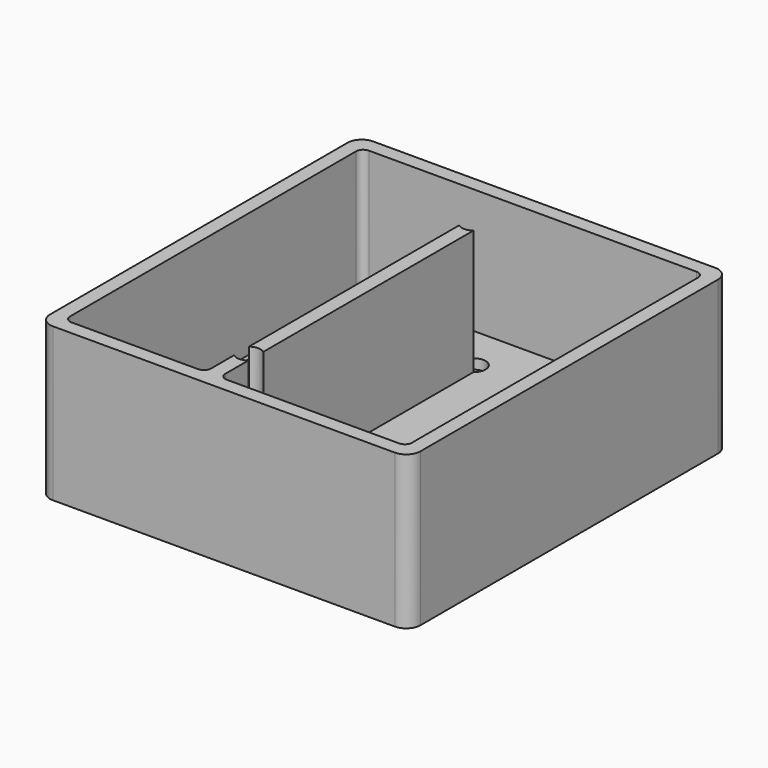
from build123d import *

# Parameters (mm, degrees)
F0_W      = 52
F0_H      = 56.2
F1_DEPTH  = 4
F2_W      = 52
F2_H      = 56.2
F3_DEPTH  = 17.5
F5_DEPTH  = 1
F6_R      = 3.25
F7_DEPTH  = 2
F9_DEPTH  = 2.6
F10_R     = 1.65
F11_DEPTH = 21.501
F12_R     = 2
F13_R     = 1


with BuildPart() as f1:
    # F0 (on Top) → F1 (new body)
    with BuildSketch(Plane.XY):
        with Locations((26, 28.1)):
            Rectangle(F0_W, F0_H)
    extrude(amount=F1_DEPTH)

    # F2 (on face) → F3 (join)
    with BuildSketch(Plane.XY.offset(4)):
        with Locations((26, 28.1)):
            Rectangle(F2_W, F2_H)
        Polygon((2, 2), (2, 54.2), (50, 54.2), (50, 2), (23.8, 2), (23.8, 48.2), (21.8, 48.2), (21.8, 2), align=None, mode=Mode.SUBTRACT)
    extrude(amount=F3_DEPTH)

    # F4 (on face) → F5 (cut)
    with BuildSketch(Plane.XY.offset(4)):
        Polygon((2.6, 45.881166), (2.6, 22.581166), (7.6, 17.262331), (14.9, 17.262331), (19.9, 22.581166), (19.9, 45.881166), (14.9, 51.2), (7.6, 51.2), align=None)
    extrude(amount=-F5_DEPTH, mode=Mode.SUBTRACT)

    # F6 (on face) → F7 (cut, through all)
    with BuildSketch(Plane.YZ.offset(2)):
        with Locations((8.75, 12.75)):
            Circle(F6_R)
    extrude(amount=-F7_DEPTH, mode=Mode.SUBTRACT)

    # F8 (on face) → F9 (cut)
    with BuildSketch(Plane(origin=(0, 0, 0), x_dir=(1, 0, 0), z_dir=(0, 0, -1))):
        Polygon((19.9, -10.022947), (22.8, -11.697263), (25.7, -10.022947), (25.7, -6.674316), (22.8, -5), (19.9, -6.674316), align=None)
        Polygon((22.8, -44.502737), (19.9, -46.177053), (19.9, -49.525684), (22.8, -51.2), (25.7, -49.525684), (25.7, -46.177053), align=None)
    extrude(amount=-F9_DEPTH, mode=Mode.SUBTRACT)

    # F10 (on face) → F11 (cut, through all)
    with BuildSketch(Plane(origin=(0, 0, 0), x_dir=(1, 0, 0), z_dir=(0, 0, -1))):
        with Locations((22.8, -47.851368)):
            Circle(F10_R)
        with Locations((22.8, -8.348632)):
            Circle(F10_R)
    extrude(amount=-F11_DEPTH, mode=Mode.SUBTRACT)

    # F12
    f12_edges = [f1.edges().sort_by_distance(p)[0] for p in [
        (0, 0, 10.75),
        (52, 0, 10.75),
        (0, 56.2, 10.75),
        (52, 56.2, 10.75),
    ]]
    fillet(f12_edges, radius=F12_R)

    # F13
    f13_edges = [f1.edges().sort_by_distance(p)[0] for p in [
        (50, 54.2, 12.75),
        (50, 2, 12.75),
        (2, 2, 12.75),
        (2, 54.2, 12.75),
        (21.8, 2, 12.75),
        (23.8, 2, 12.75),
    ]]
    fillet(f13_edges, radius=F13_R)


solid = f1.part
